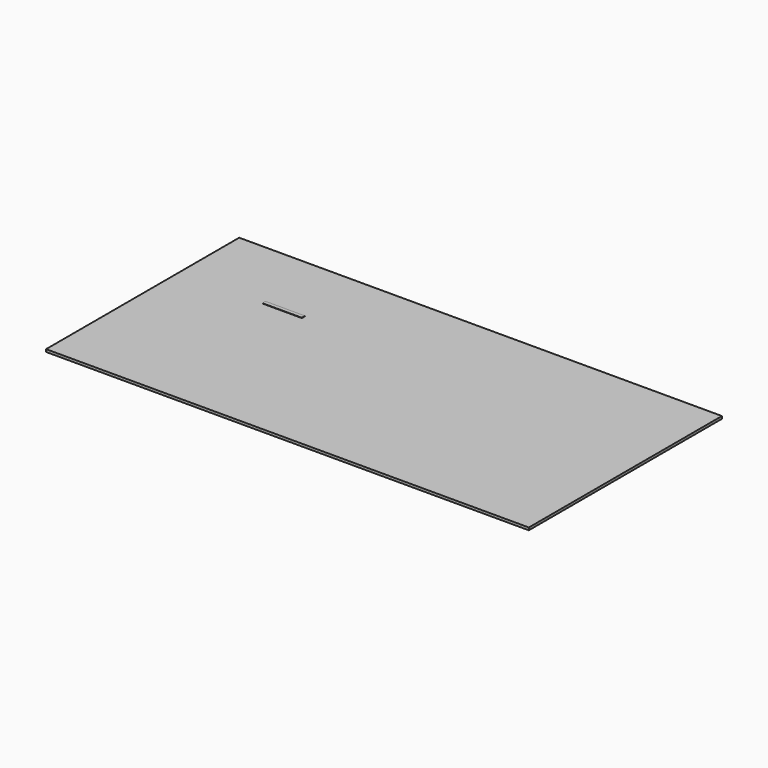
from build123d import *

# Parameters (mm, degrees)
F0_W     = 1219.2
F0_H     = 609.6
F1_DEPTH = 6.35
F2_W     = 100
F2_H     = 10
F3_DEPTH = 0.79375


with BuildPart() as f1:
    # F0 (on Top) → F1 (new body)
    with BuildSketch(Plane.XY):
        Rectangle(F0_W, F0_H)
    extrude(amount=F1_DEPTH)


with BuildPart() as f3:
    # F2 (on face) → F3 (new body)
    with BuildSketch(Plane.XY.offset(6.35)):
        with Locations((-348.499017, 118.864551)):
            Rectangle(F2_W, F2_H)
    extrude(amount=F3_DEPTH)


solid = Compound([f1.part, f3.part])
